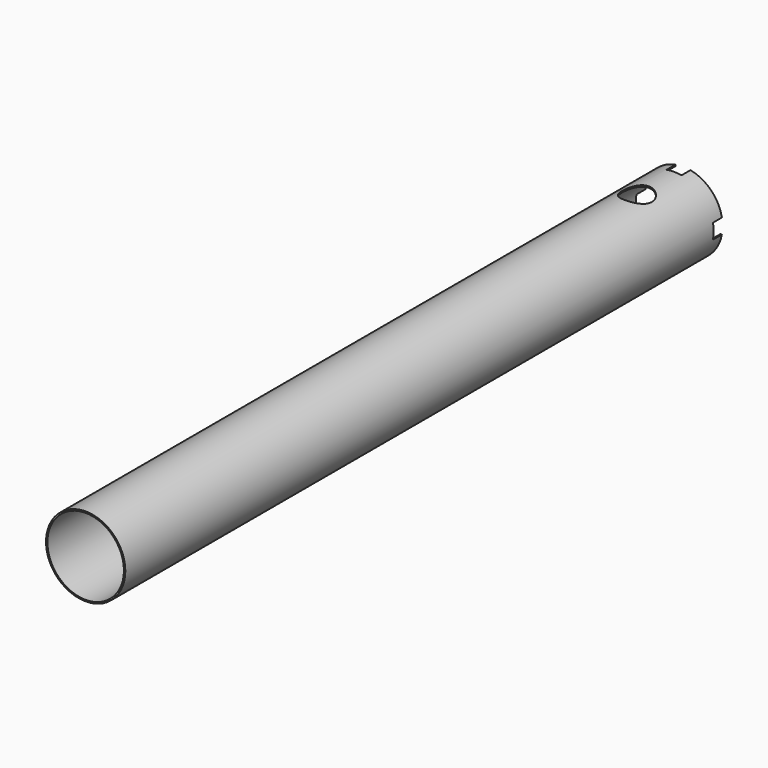
from build123d import *

# Parameters (mm, degrees)
SKETCH011_R          = 10.625
SKETCH011_R_2        = 10.25
PAD003_DEPTH         = 200
SKETCH018_R          = 4
POCKET008_DEPTH      = 50
POCKET008_DEPTH_BACK = 50
POCKET009_DEPTH      = 3


with BuildPart() as part:
    # Sketch011 → Pad003 (new body)
    with BuildSketch(Plane.XZ):
        Circle(SKETCH011_R)
        Circle(SKETCH011_R_2, mode=Mode.SUBTRACT)
    extrude(amount=PAD003_DEPTH)

    # Sketch018 → Pocket008 (cut, two sides)
    with BuildSketch(Plane.XY) as pocket008_sk:
        with Locations((0, -15.434778)):
            Circle(SKETCH018_R)
    extrude(amount=-POCKET008_DEPTH, mode=Mode.SUBTRACT)
    extrude(pocket008_sk.sketch, amount=POCKET008_DEPTH_BACK, mode=Mode.SUBTRACT)

    # Sketch019 → Pocket009 (cut)
    with BuildSketch(Plane.XZ):
        Polygon((12, -2), (12, 2), (2, 2), (2, 12), (-2, 12), (-2, 2), (-12, 2), (-12, -2), (-2, -2), (-2, -12), (2, -12), (2, -2), align=None)
    extrude(amount=POCKET009_DEPTH, mode=Mode.SUBTRACT)


with BuildPart() as part_1:
    # Body003 placement: moved
    add(part.part.moved(Location((0, 2.5, 0))))


solid = part_1.part
